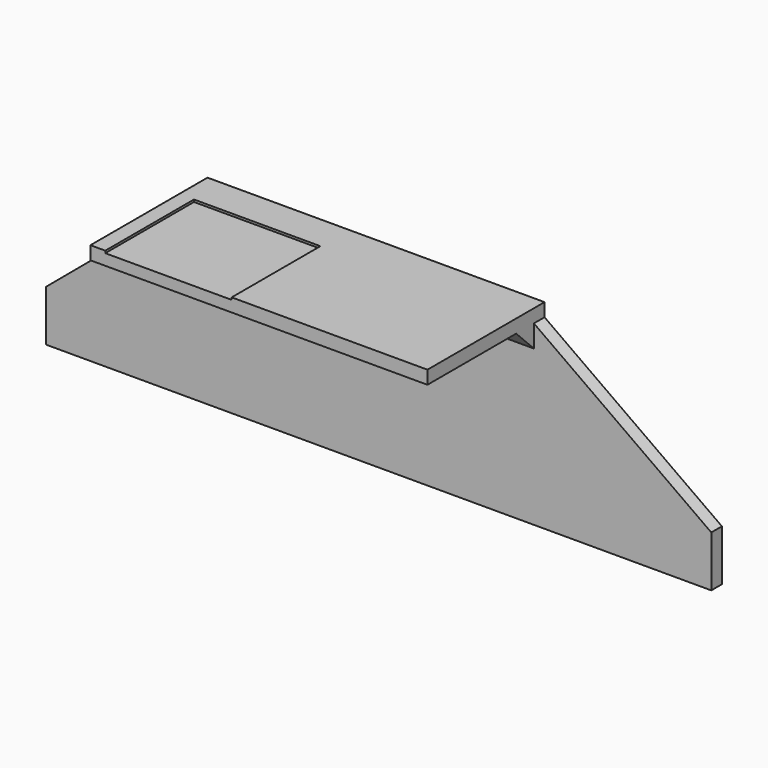
from build123d import *

# Parameters (mm, degrees)
F1_DEPTH  = 6
F2_W      = 152
F2_H      = 6
F3_DEPTH  = 60
F4_W      = 57
F4_H      = 50
F5_DEPTH  = 1
F6_W      = 152
F6_H      = 10
F7_DEPTH  = 10
F9_DEPTH  = 160
F10_R     = 12.75
F11_DEPTH = 25


with BuildPart() as f1:
    # F0 (on Front) → F1 (new body)
    with BuildSketch(Plane.XZ):
        Polygon((-65.014175, 23), (-65.014175, 0), (234.985825, 0), (234.985825, 23), (154.985825, 80), (154.985825, 86), (2.985825, 86), (2.985825, 80), align=None)
    extrude(amount=F1_DEPTH)

    # F2 (on face) → F3 (join)
    with BuildSketch(Plane.XZ.offset(6)):
        with Locations((78.985825, 83)):
            Rectangle(F2_W, F2_H)
    extrude(amount=F3_DEPTH)

    # F4 (on face) → F5 (cut)
    with BuildSketch(Plane.XY.offset(86)):
        with Locations((38.185825, -41)):
            Rectangle(F4_W, F4_H)
    extrude(amount=-F5_DEPTH, mode=Mode.SUBTRACT)

    # F6 (on face) → F7 (join)
    with BuildSketch(Plane(origin=(0, 0, 80), x_dir=(1, 0, 0), z_dir=(0, 0, -1))):
        with Locations((78.985825, 11)):
            Rectangle(F6_W, F6_H)
    extrude(amount=F7_DEPTH)

    # F8 (on face) → F9 (cut)
    with BuildSketch(Plane(origin=(2.985825, 0, 0), x_dir=(0, -1, 0), z_dir=(-1, 0, 0))):
        Polygon((16, 70), (16, 80), (6, 70), align=None)
    extrude(amount=-F9_DEPTH, mode=Mode.SUBTRACT)

    # F10 (on face) → F11 (cut)
    with BuildSketch(Plane.XZ.offset(6)):
        with Locations((27.985825, 55)):
            Circle(F10_R)
    extrude(amount=-F11_DEPTH, mode=Mode.SUBTRACT)


solid = f1.part
